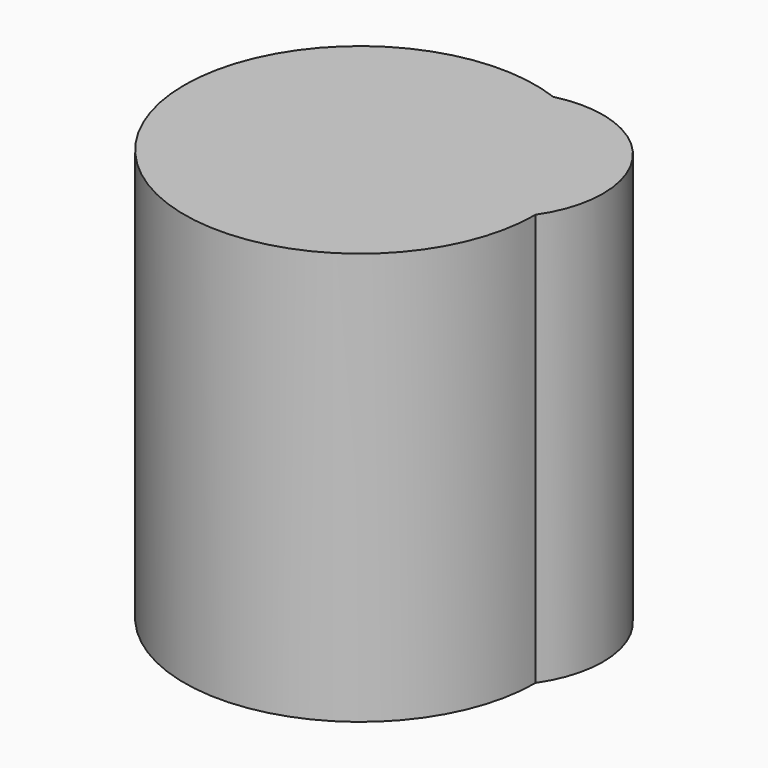
from build123d import *

# Parameters (mm, degrees)
F2_DEPTH = 6371.8276023865


with BuildPart() as f2:
    # F1 (on face) → F2 (new body)
    with BuildSketch(Plane.XY):
        with BuildLine():
            ThreePointArc((-116914.7916263687, -936.2176448423), (-116697.9269505258, -490.2591677493), (-116623.3937407642, 0))
            ThreePointArc((-116623.3937407642, 0), (-117257.391933337, 1299.927733231), (-118672.0701545602, 1600.6790427967))
            ThreePointArc((-118672.0701545602, 1600.6790427967), (-117397.8224239489, 606.2640355202), (-116914.7916263687, -936.2176448423))
        make_face()
        with BuildLine():
            ThreePointArc((-116914.7916263687, -936.2176448423), (-117397.8224239489, 606.2640355202), (-118672.0701545602, 1600.6790427967))
            ThreePointArc((-118672.0701545602, 1600.6790427967), (-119629.1539160012, -939.3530719349), (-116914.7916263687, -936.2176448423))
        make_face()
        with BuildLine():
            ThreePointArc((-116914.7916263687, -936.2176448423), (-119629.1539160012, -939.3530719349), (-118672.0701545602, 1600.6790427967))
            ThreePointArc((-118672.0701545602, 1600.6790427967), (-121861.3777257416, -2483.6811891141), (-116914.7898154645, -939.3530719349))
            ThreePointArc((-116914.7898154645, -939.3530719349), (-116914.7902681906, -937.7853581272), (-116914.7916263687, -936.2176448423))
        make_face()
    extrude(amount=F2_DEPTH)


solid = f2.part
